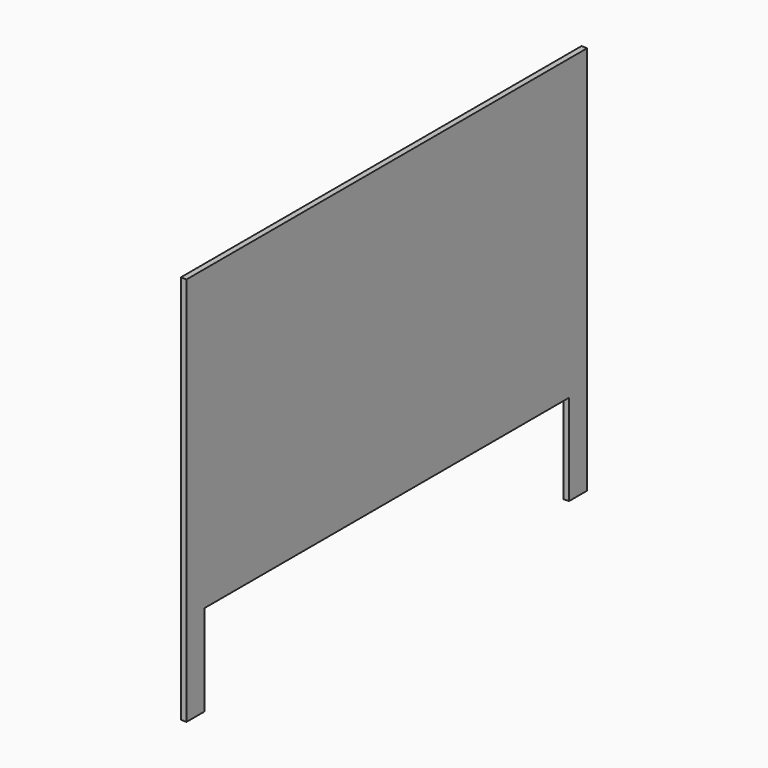
from build123d import *

# Parameters (mm, degrees)
F0_W     = 1117.6
F0_H     = 1179.83
F0_W_2   = 101.6
F0_H_2   = 406.4
F1_DEPTH = 25.4


with BuildPart() as f1:
    # F0 (on Right) → F1 (new body)
    with BuildSketch(Plane.YZ):
        with Locations((-785.747917, 963.165681)):
            Rectangle(F0_W, F0_H)
        Polygon((-226.947917, 373.250681), (-1344.547917, 373.250681), (-1344.547917, 220.850681), (-1242.947917, 220.850681), (789.052083, 220.850681), (890.652083, 220.850681), (890.652083, 373.250681), align=None)
        with Locations((331.852083, 963.165681)):
            Rectangle(F0_W, F0_H)
        with Locations((-1293.747917, 17.650681)):
            Rectangle(F0_W_2, F0_H_2)
        with Locations((839.852083, 17.650681)):
            Rectangle(F0_W_2, F0_H_2)
    extrude(amount=F1_DEPTH)


solid = f1.part
